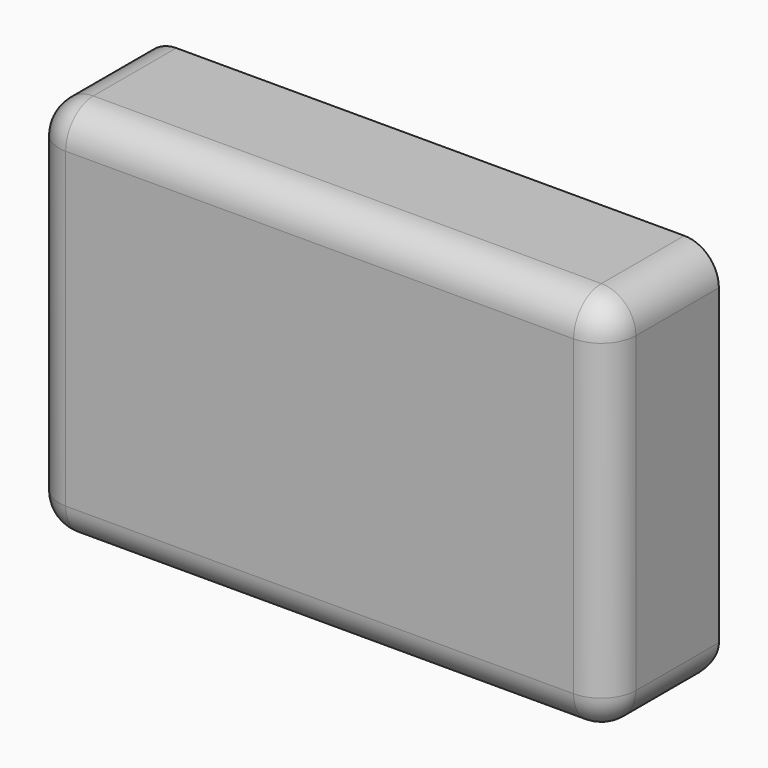
from build123d import *

# Parameters (mm, degrees)
F0_W     = 105.97752
F0_H     = 70.068792
F1_DEPTH = 25.4
F2_R     = 6.35


with BuildPart() as f1:
    # F0 (on Front) → F1 (new body)
    with BuildSketch(Plane.XZ):
        Rectangle(F0_W, F0_H)
    extrude(amount=F1_DEPTH)

    # F2
    f2_edges = [f1.edges().sort_by_distance(p)[0] for p in [
        (0, -25.4, 35.034396),
        (-52.98876, -25.4, 0),
        (0, -25.4, -35.034396),
        (52.98876, -25.4, 0),
        (52.98876, -12.7, -35.034396),
        (52.98876, -12.7, 35.034396),
        (0, 0, -35.034396),
        (-52.98876, -12.7, -35.034396),
        (-52.98876, -12.7, 35.034396),
    ]]
    fillet(f2_edges, radius=F2_R)


solid = f1.part
